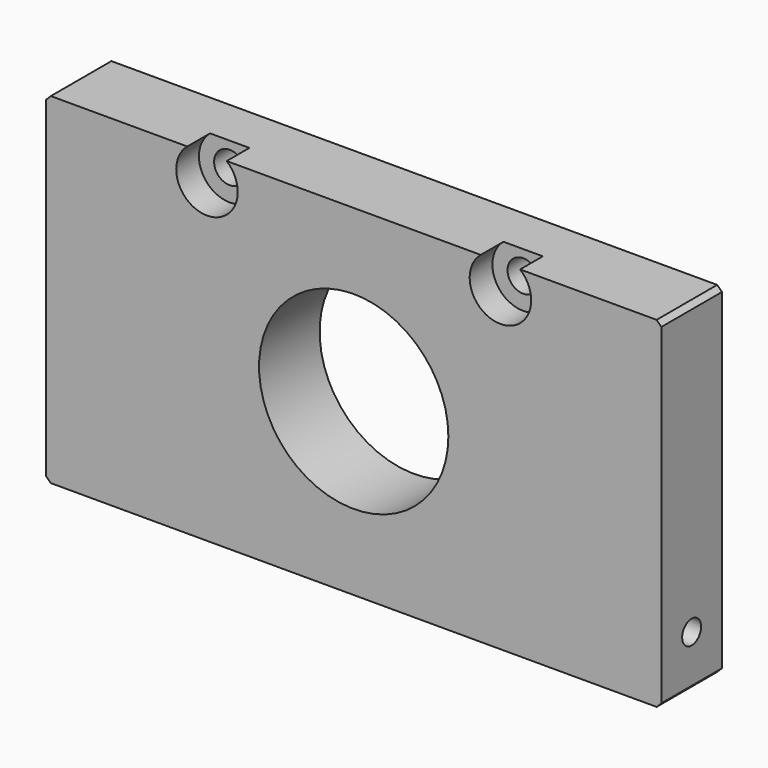
from build123d import *

# Parameters (mm, degrees)
F0_W           = 65
F0_H           = 36
F0_R           = 10
F1_DEPTH       = 8
F3_D           = 3.3
F3_CBORE_D     = 6.5
F3_CBORE_DEPTH = 3
F4_SIZE        = 0.5
F6_D           = 2.5
F6_DEPTH       = 13.5
F6_TIP         = 0.7510757738
F8_D           = 2.5
F8_DEPTH       = 13.5
F8_TIP         = 0.7510757738


with BuildPart() as f1:
    # F0 (on Front) → F1 (new body)
    with BuildSketch(Plane.XZ):
        Rectangle(F0_W, F0_H)
        Circle(F0_R, mode=Mode.SUBTRACT)
    extrude(amount=F1_DEPTH)

    # F3 (through all)
    with Locations(Plane.XZ.offset(8)):
        with Locations((15.5, 15.5), (-15.5, 15.5)):
            CounterBoreHole(F3_D / 2, F3_CBORE_D / 2, F3_CBORE_DEPTH)

    # F4
    f4_edges = [f1.edges().sort_by_distance(p)[0] for p in [
        (-32.5, -4, 18),
        (32.5, -4, 18),
        (32.5, -4, -18),
        (-32.5, -4, -18),
    ]]
    chamfer(f4_edges, length=F4_SIZE)

    # F6
    with Locations(Plane(origin=(0, 0, -18), x_dir=(1, 0, 0), z_dir=(0, 0, -1))):
        with Locations((27, 4), (-27, 4)):
            Hole(F6_D / 2, depth=F6_DEPTH)
            with Locations((0, 0, -(F6_DEPTH + F6_TIP / 2))):  # 118° drill point
                Cone(0, F6_D / 2, F6_TIP, mode=Mode.SUBTRACT)

    # F8
    with Locations(Plane.YZ.offset(32.5)):
        with Locations((-4, -12.5)):
            Hole(F8_D / 2, depth=F8_DEPTH)
            with Locations((0, 0, -(F8_DEPTH + F8_TIP / 2))):  # 118° drill point
                Cone(0, F8_D / 2, F8_TIP, mode=Mode.SUBTRACT)


solid = f1.part
